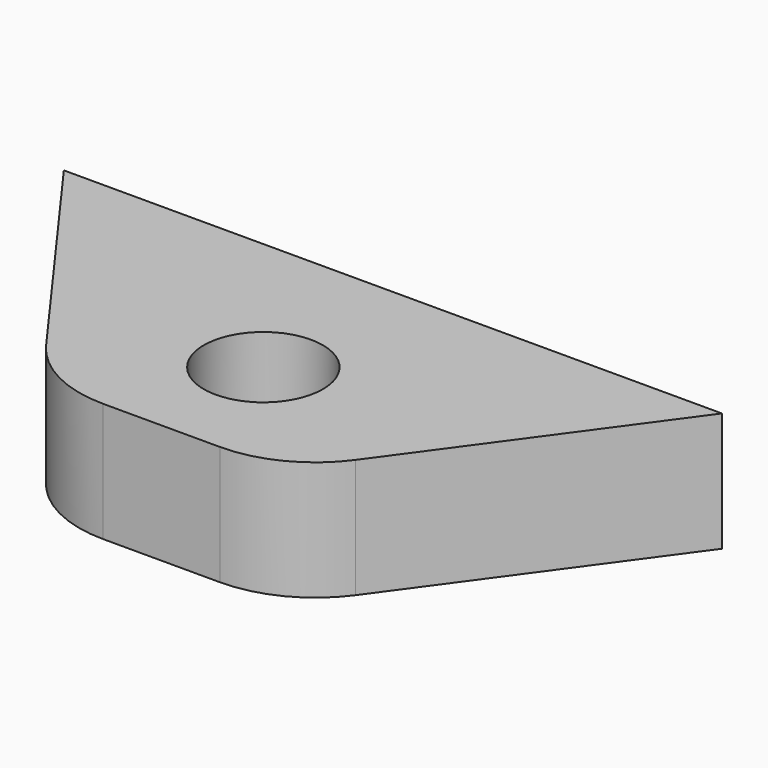
from build123d import *

# Parameters (mm, degrees)
F0_R     = 6.35
F1_DEPTH = 12.7


with BuildPart() as f1:
    # F0 (on Top) → F1 (new body)
    with BuildSketch(Plane.XY):
        with BuildLine():
            Line((35.025607, 17.338161), (-35.143936, 17.338161))
            Line((-35.143936, 17.338161), (-16.562536, -8.254128))
            ThreePointArc((-16.562536, -8.254128), (-12.053122, -12.1074), (-6.285636, -13.492538))
            Line((-6.285636, -13.492538), (6.167308, -13.492538))
            ThreePointArc((6.167308, -13.492538), (11.934794, -12.1074), (16.444207, -8.254128))
            Line((16.444207, -8.254128), (35.025607, 17.338161))
        make_face()
        Circle(F0_R, mode=Mode.SUBTRACT)
    extrude(amount=F1_DEPTH)


solid = f1.part
